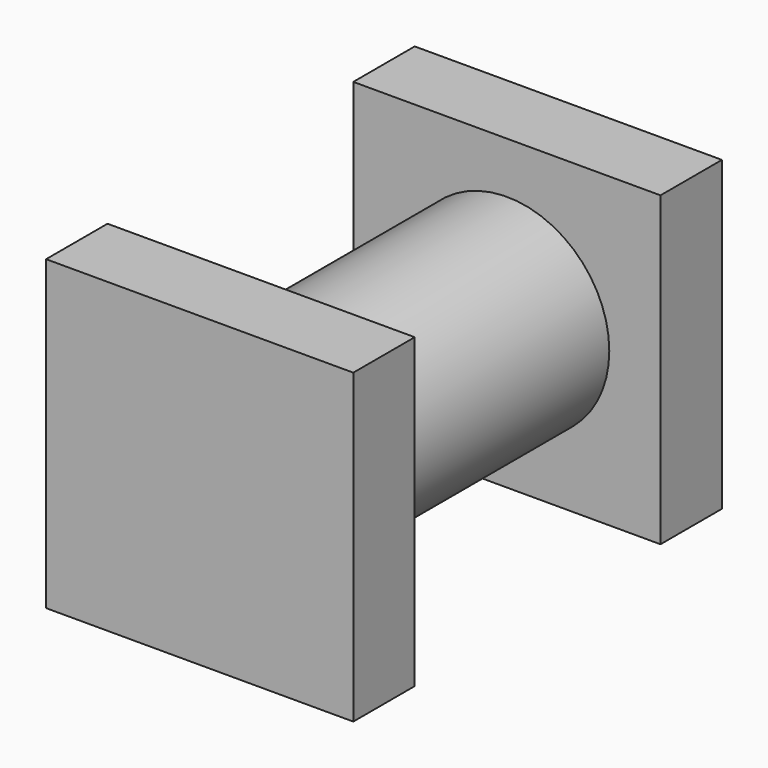
from build123d import *

# Parameters (mm, degrees)
F0_W     = 76.2
F0_H     = 76.2
F1_DEPTH = 19.05
F2_R     = 25.4
F3_DEPTH = 76.2
F4_W     = 78.3899585484
F4_H     = 76.2
F4_R     = 25.4
F5_DEPTH = 19.05
F7_W     = 76.2
F7_H     = 76.2
F7_R     = 25.4
F8_DEPTH = 19.05


with BuildPart() as f1:
    # F0 (on Front) → F1 (new body)
    with BuildSketch(Plane.XZ):
        Rectangle(F0_W, F0_H)
    extrude(amount=F1_DEPTH)

    # F2 (on face) → F3 (join)
    with BuildSketch(Plane.XZ.offset(19.05)):
        Circle(F2_R)
    extrude(amount=F3_DEPTH)

    # F7 (on face) → F8 (join)
    with BuildSketch(Plane.XZ.offset(95.25)):
        Rectangle(F7_W, F7_H)
        Circle(F7_R, mode=Mode.SUBTRACT)
        Circle(F7_R)
    extrude(amount=F8_DEPTH)


with BuildPart() as f5:
    # F4 (on face) → F5 (new body)
    with BuildSketch(Plane.XZ.offset(95.25)):
        Rectangle(F4_W, F4_H)
        Circle(F4_R, mode=Mode.SUBTRACT)
    extrude(amount=F5_DEPTH)


solid = f1.part
